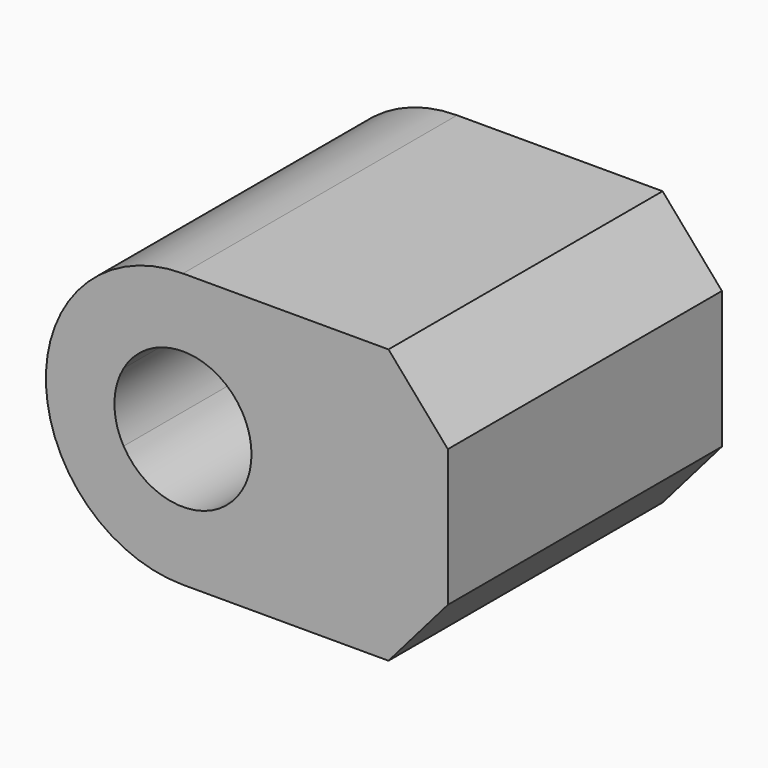
from build123d import *

# Parameters (mm, degrees)
F1_DEPTH = 25


with BuildPart() as f1:
    # F0 (on Front) → F1 (new body)
    with BuildSketch(Plane.XZ):
        with BuildLine():
            ThreePointArc((-4.330127, 2.5), (0, 5), (4.330127, 2.5))
            Line((4.330127, 2.5), (9.682458, 2.5))
            ThreePointArc((9.682458, 2.5), (6.123724, 7.905694), (0, 10))
            ThreePointArc((0, 10), (-6.123724, 7.905694), (-9.682458, 2.5))
            Line((-9.682458, 2.5), (-4.330127, 2.5))
        make_face()
        with BuildLine():
            ThreePointArc((4.330127, 2.5), (4.829629, 1.294095), (5, 0))
            ThreePointArc((5, 0), (4.829629, -1.294095), (4.330127, -2.5))
            Line((4.330127, -2.5), (9.682458, -2.5))
            Line((9.682458, -2.5), (19.330127, -2.5))
            Line((19.330127, -2.5), (19.330127, 2.5))
            Line((19.330127, 2.5), (9.682458, 2.5))
            Line((9.682458, 2.5), (4.330127, 2.5))
        make_face()
        with BuildLine():
            ThreePointArc((-4.330127, 2.5), (0, 5), (4.330127, 2.5))
            Line((4.330127, 2.5), (9.682458, 2.5))
            ThreePointArc((9.682458, 2.5), (6.123724, 7.905694), (0, 10))
            ThreePointArc((0, 10), (-6.123724, 7.905694), (-9.682458, 2.5))
            Line((-9.682458, 2.5), (-4.330127, 2.5))
        make_face()
        with BuildLine():
            Line((9.682458, -2.5), (4.330127, -2.5))
            ThreePointArc((4.330127, -2.5), (0, -5), (-4.330127, -2.5))
            Line((-4.330127, -2.5), (-9.682458, -2.5))
            ThreePointArc((-9.682458, -2.5), (-6.123724, -7.905694), (0, -10))
            ThreePointArc((0, -10), (6.123724, -7.905694), (9.682458, -2.5))
        make_face()
        with BuildLine():
            ThreePointArc((-4.330127, -2.5), (-5, 0), (-4.330127, 2.5))
            Line((-4.330127, 2.5), (-9.682458, 2.5))
            ThreePointArc((-9.682458, 2.5), (-10, 0), (-9.682458, -2.5))
            Line((-9.682458, -2.5), (-4.330127, -2.5))
        make_face()
        with BuildLine():
            ThreePointArc((0, 10), (6.123724, 7.905694), (9.682458, 2.5))
            Line((9.682458, 2.5), (19.330127, 2.5))
            Line((19.330127, 2.5), (19.330127, 5))
            Line((19.330127, 5), (15, 10))
            Line((15, 10), (0, 10))
        make_face()
        with BuildLine():
            Line((19.330127, -2.5), (9.682458, -2.5))
            ThreePointArc((9.682458, -2.5), (6.123724, -7.905694), (0, -10))
            Line((0, -10), (15, -10))
            Line((15, -10), (19.330127, -5))
            Line((19.330127, -5), (19.330127, -2.5))
        make_face()
    extrude(amount=F1_DEPTH)


solid = f1.part
